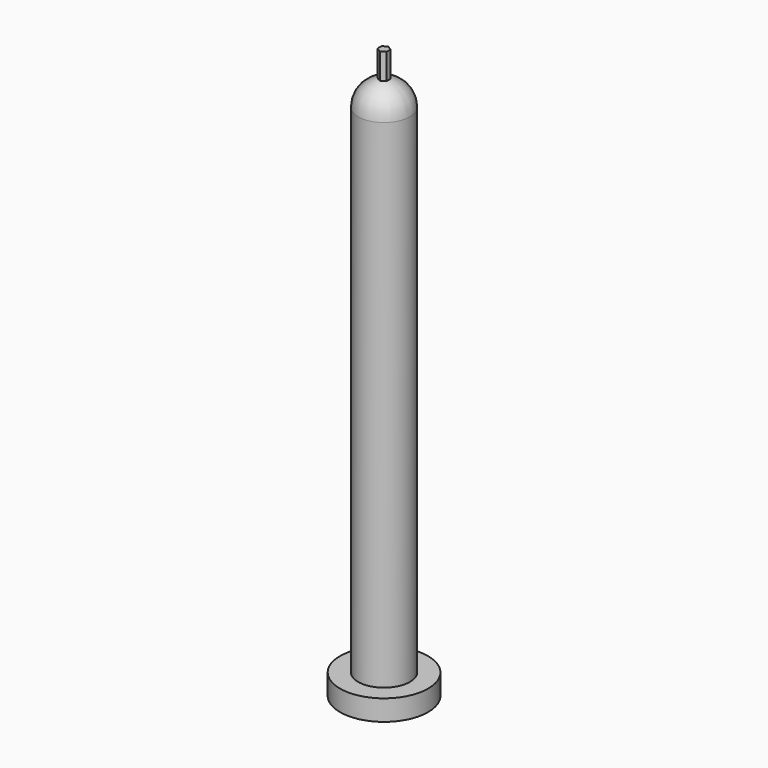
from build123d import *

# Parameters (mm, degrees)
F0_R     = 8.5
F1_DEPTH = 4
F2_R     = 5
F3_DEPTH = 100
F9_DEPTH = 5


with BuildPart() as f1:
    # F0 (on Top) → F1 (new body)
    with BuildSketch(Plane.XY):
        Circle(F0_R)
    extrude(amount=F1_DEPTH)

    # F2 (on Top) → F3 (join)
    with BuildSketch(Plane.XY):
        Circle(F2_R)
    extrude(amount=F3_DEPTH)

    # F4 (on Right) → F7 (revolve)
    with BuildSketch(Plane.YZ):
        with BuildLine():
            Line((0, 104.898979), (0, 100))
            Line((0, 100), (5, 100))
            ThreePointArc((5, 100), (3.872983, 103.162278), (1, 104.898979))
            Line((1, 104.898979), (0, 104.898979))
        make_face()
    revolve(axis=Axis((0, 0, 102.5), (0, 0, -1)))

    # F8 (on face) → F9 (join)
    with BuildSketch(Plane(origin=(0, 0, 104.898979), x_dir=(1, 0, 0), z_dir=(0, 0, -1))):
        Polygon((0.866025, -0.5), (0.866025, 0.5), (0, 1), (-0.866025, 0.5), (-0.866025, -0.5), (0, -1), align=None)
    extrude(amount=-F9_DEPTH)


solid = f1.part
